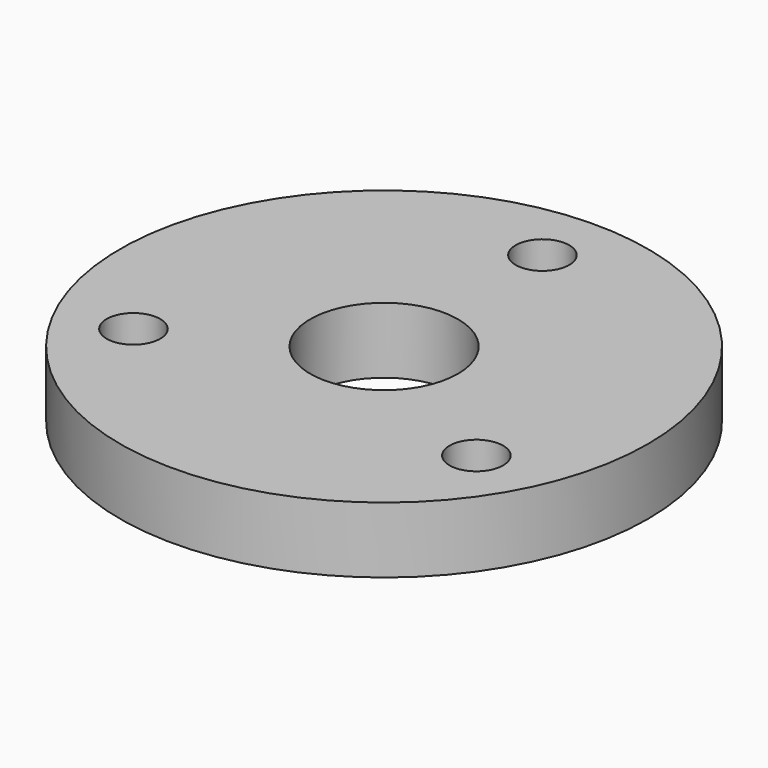
from build123d import *

# Parameters (mm, degrees)
F0_R     = 100
F0_R_2   = 28
F1_DEPTH = 25
F3_D     = 20.3


with BuildPart() as f1:
    # F0 (on Top) → F1 (new body)
    with BuildSketch(Plane.XY):
        Circle(F0_R)
        Circle(F0_R_2, mode=Mode.SUBTRACT)
    extrude(amount=F1_DEPTH)

    # F3 (through all)
    with Locations(Plane.XY.offset(25)):
        with Locations((0, 75), (-64.951905, -37.5), (64.951905, -37.5)):
            Hole(F3_D / 2)


solid = f1.part
